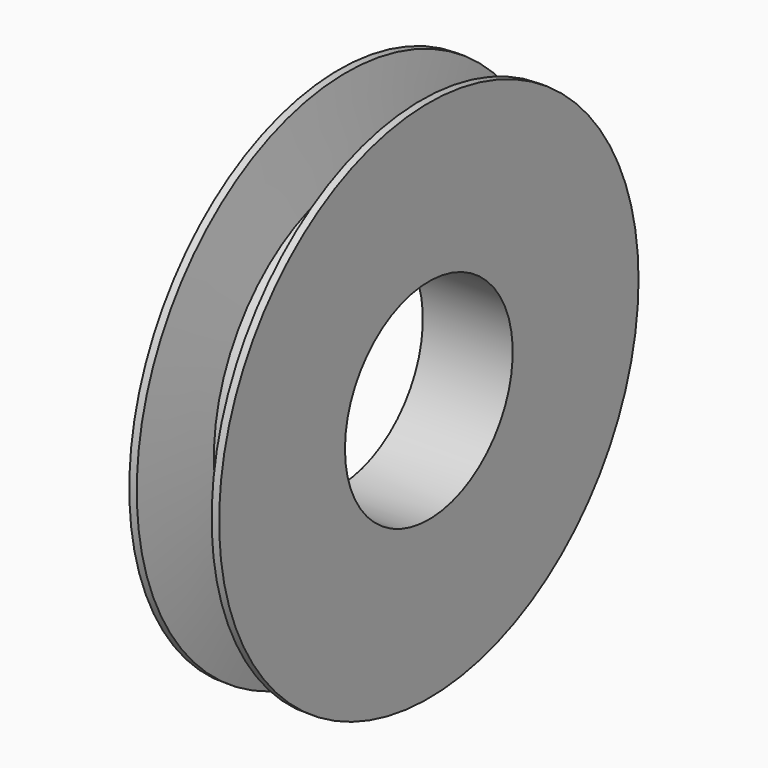
from build123d import *

# Parameters (mm, degrees)
SKETCH001_R  = 14
POCKET_DEPTH = 12.001


with BuildPart() as part:
    # Sketch → Revolution (revolve)
    with BuildSketch(Plane.XY):
        Polygon((-6, 0), (6, 0), (6, 35), (5, 35), (3.5, 24), (-3.5, 24), (-5, 35), (-6, 35), align=None)
    revolve(axis=Axis((0, 0, 0), (1, 0, 0)))

    # Sketch001 (on Face1 of Revolution) → Pocket (cut, through all)
    with BuildSketch(Plane(origin=(-6, 0, 0), x_dir=(0, -1, 0), z_dir=(-1, 0, 0))):
        Circle(SKETCH001_R)
    extrude(amount=-POCKET_DEPTH, mode=Mode.SUBTRACT)


solid = part.part
